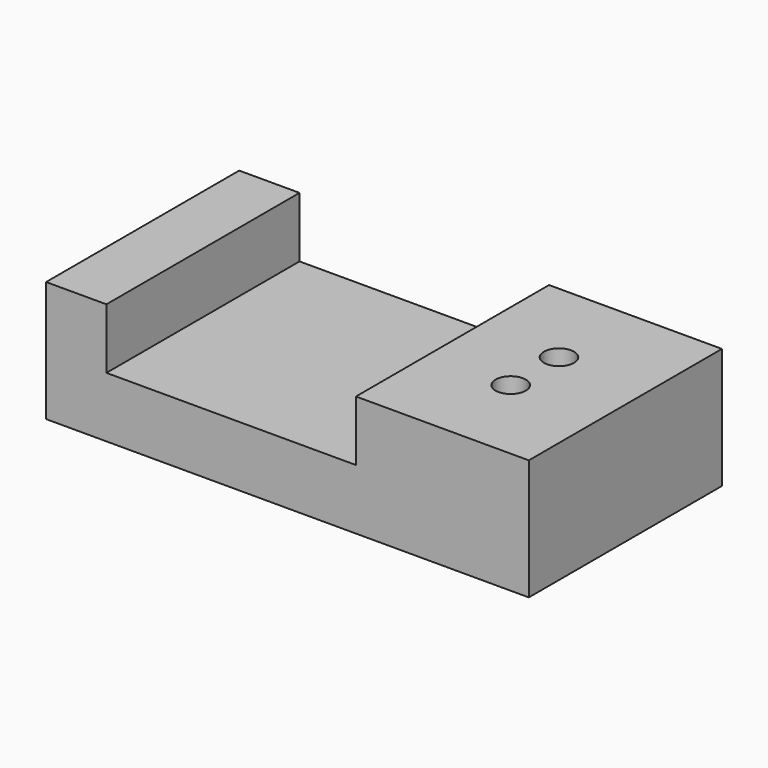
from build123d import *

# Parameters (mm, degrees)
F0_W     = 20.32
F0_H     = 10.16
F1_DEPTH = 5.08
F2_W     = 10.5029
F2_H     = 10.16
F3_DEPTH = 2.54
F5_D     = 1.27
F7_R     = 2.75
F7_R_2   = 0.635
F8_DEPTH = 1.524


with BuildPart() as f1:
    # F0 (on Top) → F1 (new body)
    with BuildSketch(Plane.XY):
        Rectangle(F0_W, F0_H)
    extrude(amount=F1_DEPTH)

    # F2 (on face) → F3 (cut)
    with BuildSketch(Plane.XY.offset(5.08)):
        with Locations((-2.36855, 0)):
            Rectangle(F2_W, F2_H)
    extrude(amount=-F3_DEPTH, mode=Mode.SUBTRACT)

    # F5 (through all)
    with Locations(Plane.XY.offset(5.08)):
        with Locations((6.35, 1.27), (6.35, -1.27)):
            Hole(F5_D / 2)

    # F7 (on face) → F8 (cut)
    with BuildSketch(Plane(origin=(0, 0, 0), x_dir=(1, 0, 0), z_dir=(0, 0, -1))):
        with Locations((6.35, 0)):
            Circle(F7_R)
        with Locations((6.35, -1.27)):
            Circle(F7_R_2, mode=Mode.SUBTRACT)
        with Locations((6.35, 1.27)):
            Circle(F7_R_2, mode=Mode.SUBTRACT)
    extrude(amount=-F8_DEPTH, mode=Mode.SUBTRACT)


solid = f1.part
